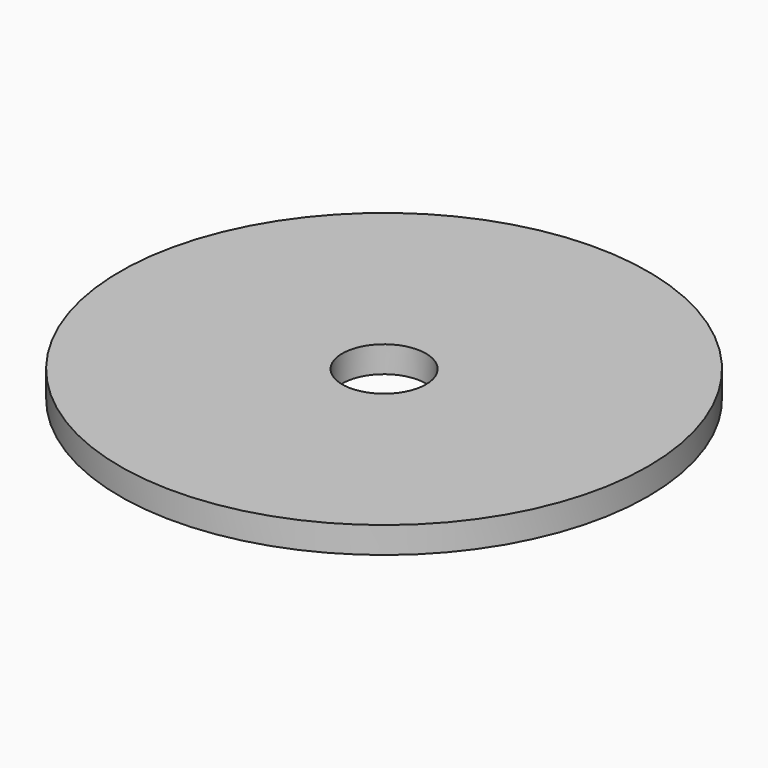
from build123d import *

# Parameters (mm, degrees)
F0_R     = 70
F0_R_2   = 11.1
F1_DEPTH = 7


with BuildPart() as f1:
    # F0 (on Top) → F1 (new body)
    with BuildSketch(Plane.XY):
        Circle(F0_R)
        Circle(F0_R_2, mode=Mode.SUBTRACT)
        Circle(F0_R)
        Circle(F0_R_2, mode=Mode.SUBTRACT)
    extrude(amount=F1_DEPTH)


solid = f1.part
